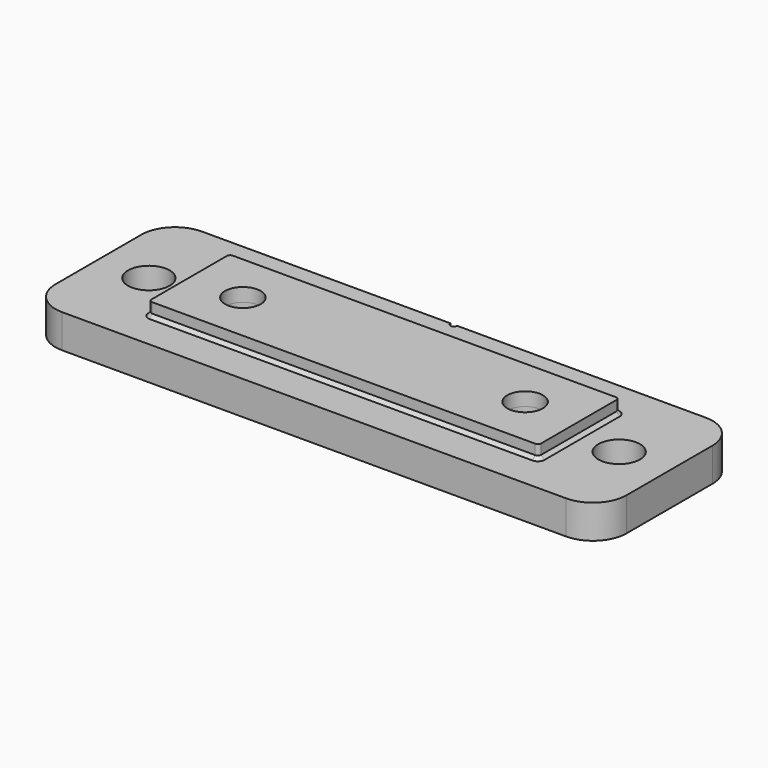
from build123d import *

# Parameters (mm, degrees)
SKETCH_R       = 2.65
SKETCH_R_2     = 3.1
PAD_DEPTH      = 2
PAD_DEPTH_BACK = 5
SKETCH001_W    = 85
SKETCH001_H    = 26
POCKET_DEPTH   = 5
FILLET_R       = 5
CHAMFER_SIZE   = 0.5


with BuildPart() as part:
    # Sketch → Pad (new body, two sides)
    with BuildSketch(Plane.XY) as pad_sk:
        with BuildLine():
            Line((-42.5, 13), (-0.5, 13))
            ThreePointArc((-0.5, 13), (0, 12.5), (0.5, 13))
            Line((0.5, 13), (42.5, 13))
            Line((42.5, 13), (42.5, -13))
            Line((42.5, -13), (-42.5, -13))
            Line((-42.5, -13), (-42.5, 13))
        make_face()
        with Locations((-21, 0)):
            Circle(SKETCH_R, mode=Mode.SUBTRACT)
        with Locations((-35, 0)):
            Circle(SKETCH_R_2, mode=Mode.SUBTRACT)
        with Locations((35, 0)):
            Circle(SKETCH_R_2, mode=Mode.SUBTRACT)
        with Locations((21, 0)):
            Circle(SKETCH_R, mode=Mode.SUBTRACT)
    extrude(amount=PAD_DEPTH)
    extrude(pad_sk.sketch, amount=-PAD_DEPTH_BACK)

    # Sketch001 → Pocket (cut)
    with BuildSketch(Plane.XY):
        Rectangle(SKETCH001_W, SKETCH001_H)
        with BuildLine():
            Line((-28.5, 7.5), (28.5, 7.5))
            ThreePointArc((29, 7), (28.853553, 7.353553), (28.5, 7.5))
            Line((29, 7), (29, -7))
            ThreePointArc((28.5, -7.5), (28.853553, -7.353553), (29, -7))
            Line((28.5, -7.5), (-28.5, -7.5))
            ThreePointArc((-29, -7), (-28.853553, -7.353553), (-28.5, -7.5))
            Line((-29, -7), (-29, 7))
            ThreePointArc((-28.5, 7.5), (-28.853553, 7.353553), (-29, 7))
        make_face(mode=Mode.SUBTRACT)
    extrude(amount=POCKET_DEPTH, mode=Mode.SUBTRACT)

    # Sketch002 → Groove (revolve, cut)
    with BuildSketch(Plane.XZ):
        Polygon((-21, 0.4), (-16, -4.6), (-16, -5), (-21, -5), align=None)
    revolve(axis=Axis((-21, 0, 0), (0, 0, 1)), mode=Mode.SUBTRACT)

    # Sketch003 → Groove001 (revolve, cut)
    with BuildSketch(Plane.XZ):
        Polygon((21, 0.4), (26, -4.6), (26, -5), (21, -5), align=None)
    revolve(axis=Axis((21, 0, 0), (0, 0, 1)), mode=Mode.SUBTRACT)

    # Fillet
    fillet_edges = [part.edges().sort_by_distance(p)[0] for p in [
        (42.5, 13, -2.5),
        (42.5, -13, -2.5),
        (-42.5, 13, -2.5),
        (-42.5, -13, -2.5),
    ]]
    fillet(fillet_edges, radius=FILLET_R)

    # Chamfer
    chamfer_edges = [part.edges().sort_by_distance(p)[0] for p in [
        (0, 7.5, 0),
    ]]
    chamfer(chamfer_edges, length=CHAMFER_SIZE)


solid = part.part
